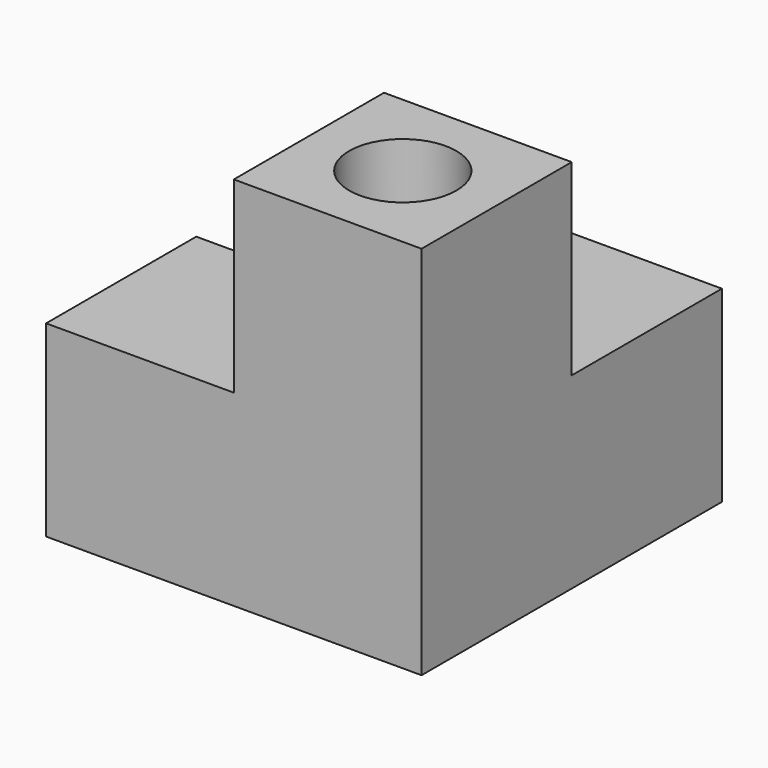
from build123d import *

# Parameters (mm, degrees)
F0_W      = 42
F0_H      = 42
F1_DEPTH  = 42
F2_W      = 21
F2_H      = 21
F3_DEPTH  = 42
F4_W      = 21
F4_H      = 21
F5_DEPTH  = 21
F6_W      = 21
F6_H      = 21
F7_DEPTH  = 21
F9_W      = 19
F9_H      = 19
F10_DEPTH = 41
F11_W     = 19
F11_H     = 19
F12_DEPTH = 22
F8_R      = 6
F13_DEPTH = 18
F15_DEPTH = 19


with BuildPart() as f1:
    # F0 (on Top) → F1 (new body)
    with BuildSketch(Plane.XY):
        Rectangle(F0_W, F0_H)
    extrude(amount=F1_DEPTH)

    # F2 (on face) → F3 (cut, through all)
    with BuildSketch(Plane.XY.offset(42)):
        with Locations((-10.5, 10.5)):
            Rectangle(F2_W, F2_H)
    extrude(amount=-F3_DEPTH, mode=Mode.SUBTRACT)

    # F4 (on face) → F5 (cut, through all)
    with BuildSketch(Plane.XZ.offset(21)):
        with Locations((-10.5, 31.5)):
            Rectangle(F4_W, F4_H)
    extrude(amount=-F5_DEPTH, mode=Mode.SUBTRACT)

    # F6 (on face) → F7 (cut, through all)
    with BuildSketch(Plane.YZ.offset(21)):
        with Locations((10.5, 31.5)):
            Rectangle(F6_W, F6_H)
    extrude(amount=-F7_DEPTH, mode=Mode.SUBTRACT)

    # F9 (on face) → F10 (cut)
    with BuildSketch(Plane(origin=(-21, 0, 0), x_dir=(0, -1, 0), z_dir=(-1, 0, 0))):
        with Locations((10.5, 10.5)):
            Rectangle(F9_W, F9_H)
    extrude(amount=-F10_DEPTH, mode=Mode.SUBTRACT)

    # F11 (on face) → F12 (cut)
    with BuildSketch(Plane(origin=(0, 21, 0), x_dir=(-1, 0, 0), z_dir=(0, 1, 0))):
        with Locations((-10.5, 10.5)):
            Rectangle(F11_W, F11_H)
    extrude(amount=-F12_DEPTH, mode=Mode.SUBTRACT)

    # F8 (on face) → F13 (cut)
    with BuildSketch(Plane.XY.offset(42)):
        with Locations((10.5, -10.5)):
            Circle(F8_R)
    extrude(amount=-F13_DEPTH, mode=Mode.SUBTRACT)

    # F14 (on face) → F15 (join, through all)
    with BuildSketch(Plane.XY.offset(1)):
        Polygon((20, -1), (6, -1), (6, -6), (1, -6), (1, -20), (20, -20), align=None)
    extrude(amount=F15_DEPTH)


solid = f1.part
